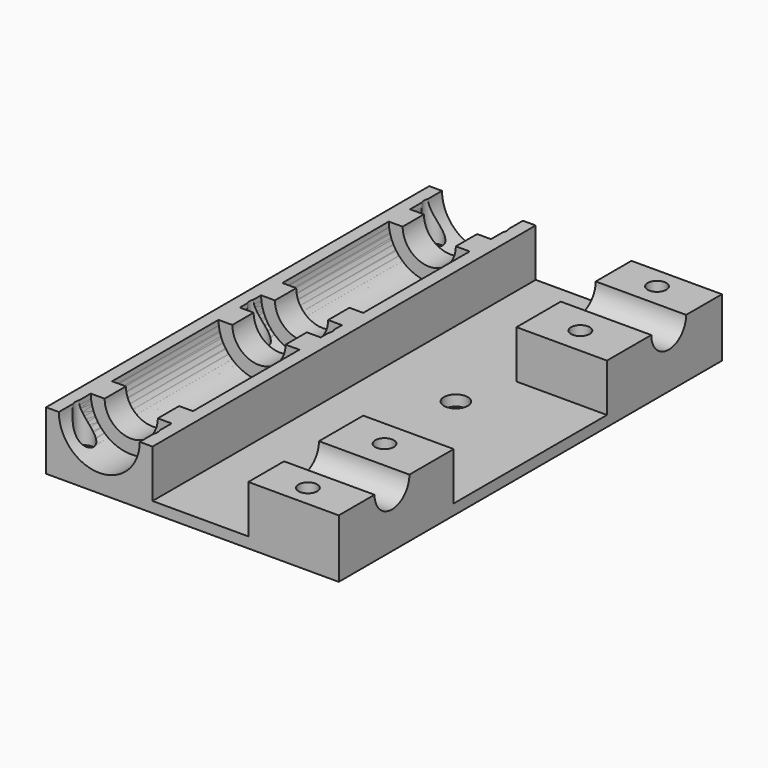
from build123d import *

# Parameters (mm, degrees)
SKETCH_W        = 55
SKETCH_H        = 90
PAD_DEPTH       = 11
SKETCH001_R     = 7.6
POCKET_DEPTH    = 90.001
SKETCH002_R     = 1.75
POCKET001_DEPTH = 11.001
POCKET002_DEPTH = 9
SKETCH004_R     = 2.25
POCKET003_DEPTH = 11.001
SKETCH008_R     = 4.1
POCKET005_DEPTH = 20
SKETCH022_R     = 2.9
POCKET007_DEPTH = 3.5
POCKET008_DEPTH = 5
PAD001_DEPTH    = 5
PAD002_DEPTH    = 5
PAD003_DEPTH    = 5
PAD004_DEPTH    = 5


with BuildPart() as pocket007:
    # Sketch → Pad (new body)
    with BuildSketch(Plane.XY):
        with Locations((17.5, 0)):
            Rectangle(SKETCH_W, SKETCH_H)
    extrude(amount=PAD_DEPTH)

    # Sketch001 → Pocket (cut, through all)
    with BuildSketch(Plane.XZ.offset(45)):
        with Locations((0, 11)):
            Circle(SKETCH001_R)
    extrude(amount=-POCKET_DEPTH, mode=Mode.SUBTRACT)

    # Sketch002 → Pocket001 (cut, through all)
    with BuildSketch(Plane.XY.offset(11)):
        with Locations((-6, 41)):
            Circle(SKETCH002_R)
        with Locations((-6, -41)):
            Circle(SKETCH002_R)
        with Locations((6, 41)):
            Circle(SKETCH002_R)
        with Locations((6, -41)):
            Circle(SKETCH002_R)
        with Locations((6, 0)):
            Circle(SKETCH002_R)
        with Locations((-6, 0)):
            Circle(SKETCH002_R)
        with Locations((36, 41)):
            Circle(SKETCH002_R)
        with Locations((36, 23)):
            Circle(SKETCH002_R)
        with Locations((36, -23)):
            Circle(SKETCH002_R)
        with Locations((36, -41)):
            Circle(SKETCH002_R)
    extrude(amount=-POCKET001_DEPTH, mode=Mode.SUBTRACT)

    # Sketch003 → Pocket002 (cut)
    with BuildSketch(Plane.XY.offset(11)):
        Polygon((10, 50), (10, -50), (28, -50), (28, -18), (48, -18), (48, 18), (28, 18), (28, 50), align=None)
    extrude(amount=-POCKET002_DEPTH, mode=Mode.SUBTRACT)

    # Sketch004 → Pocket003 (cut, through all)
    with BuildSketch(Plane(origin=(0, 0, 0), x_dir=(1, 0, 0), z_dir=(0, 0, -1))):
        with Locations((25, 7.5)):
            Circle(SKETCH004_R)
        with Locations((25, -7.5)):
            Circle(SKETCH004_R)
    extrude(amount=-POCKET003_DEPTH, mode=Mode.SUBTRACT)

    # Sketch008 → Pocket005 (cut)
    with BuildSketch(Plane.YZ.offset(45)):
        with Locations((-32.5, 11)):
            Circle(SKETCH008_R)
        with Locations((32.5, 11)):
            Circle(SKETCH008_R)
    extrude(amount=-POCKET005_DEPTH, mode=Mode.SUBTRACT)

    # Sketch022 → Pocket007 (cut)
    with BuildSketch(Plane(origin=(0, 0, 0), x_dir=(1, 0, 0), z_dir=(0, 0, -1))):
        with Locations((-6, -41)):
            Circle(SKETCH022_R)
        with Locations((6, -41)):
            Circle(SKETCH022_R)
        with Locations((36, -41)):
            Circle(SKETCH022_R)
        with Locations((6, 41)):
            Circle(SKETCH022_R)
        with Locations((36, 41)):
            Circle(SKETCH022_R)
        with Locations((-6, 41)):
            Circle(SKETCH022_R)
        with Locations((-6, 0)):
            Circle(SKETCH022_R)
        with Locations((6, 0)):
            Circle(SKETCH022_R)
        with Locations((36, 23)):
            Circle(SKETCH022_R)
        with Locations((36, -23)):
            Circle(SKETCH022_R)
    extrude(amount=-POCKET007_DEPTH, mode=Mode.SUBTRACT)


with BuildPart() as pocket008:
    # Pocket008 base: copy of Pocket007
    add(pocket007.part)

    # Sketch023 → Pocket008 (cut)
    with BuildSketch(Plane.XY.offset(2)):
        Polygon((40.573685, 18), (32, 3.425), (32, -3.425), (40.573685, -18), (51.573685, -18), (51.573685, 18), align=None)
    extrude(amount=-POCKET008_DEPTH, mode=Mode.SUBTRACT)


with BuildPart() as pad001:
    # Sketch018 → Pad001 (new body)
    with BuildSketch(Plane.XZ.offset(-7.5)):
        with BuildLine():
            ThreePointArc((-7.6, 11), (0, 3.4), (7.6, 11))
            Line((7.6, 11), (5, 11))
            ThreePointArc((-5, 11), (0, 6), (5, 11))
            Line((-7.6, 11), (-5, 11))
        make_face()
    extrude(amount=PAD001_DEPTH)


with BuildPart() as pad002:
    # Sketch019 → Pad002 (new body)
    with BuildSketch(Plane.XZ.offset(7.5)):
        with BuildLine():
            ThreePointArc((-7.6, 11), (0, 3.4), (7.6, 11))
            Line((7.6, 11), (5, 11))
            ThreePointArc((-5, 11), (0, 6), (5, 11))
            Line((-7.6, 11), (-5, 11))
        make_face()
    extrude(amount=-PAD002_DEPTH)


with BuildPart() as pad003:
    # Sketch020 → Pad003 (new body)
    with BuildSketch(Plane.XZ.offset(-32.5)):
        with BuildLine():
            ThreePointArc((-7.6, 11), (0, 3.4), (7.6, 11))
            Line((7.6, 11), (5, 11))
            ThreePointArc((-5, 11), (0, 6), (5, 11))
            Line((-7.6, 11), (-5, 11))
        make_face()
    extrude(amount=-PAD003_DEPTH)


with BuildPart() as pad004:
    # Sketch021 → Pad004 (new body)
    with BuildSketch(Plane.XZ.offset(32.5)):
        with BuildLine():
            ThreePointArc((-7.6, 11), (0, 3.4), (7.6, 11))
            Line((7.6, 11), (5, 11))
            ThreePointArc((-5, 11), (0, 6), (5, 11))
            Line((-7.6, 11), (-5, 11))
        make_face()
    extrude(amount=PAD004_DEPTH)


with BuildPart() as fusion:
    # Fusion base: copy of Pocket007
    add(pocket007.part)

    # Fusion: union Pad001, Pad002, Pad003, Pad004
    add(pad001.part)
    add(pad002.part)
    add(pad003.part)
    add(pad004.part)


solid = Compound([pocket008.part, fusion.part])
